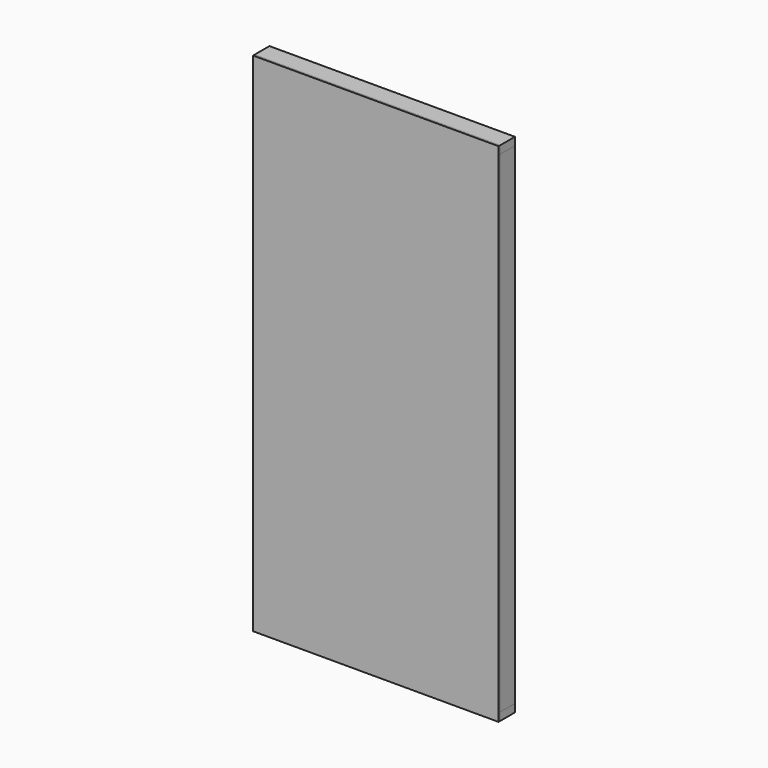
from build123d import *

# Parameters (mm, degrees)
F1_DEPTH = 44.45
F0_W     = 38.1
F0_H     = 2362.2
F2_DEPTH = 44.45
F3_W     = 1181.1
F3_H     = 2438.4
F4_DEPTH = 9.525


with BuildPart() as f1:
    # F0 (on Front) → F1 (new body, symmetric)
    with BuildSketch(Plane.XZ):
        Polygon((-590.55, 1181.1), (-552.45, 1181.1), (-184.15, 1181.1), (-146.05, 1181.1), (0, 1181.1), (38.1, 1181.1), (222.25, 1181.1), (260.35, 1181.1), (552.45, 1181.1), (590.55, 1181.1), (590.55, 1219.2), (-590.55, 1219.2), align=None)
        Polygon((-184.15, -1181.1), (-552.45, -1181.1), (-590.55, -1181.1), (-590.55, -1219.2), (590.55, -1219.2), (590.55, -1181.1), (552.45, -1181.1), (260.35, -1181.1), (222.25, -1181.1), (38.1, -1181.1), (0, -1181.1), (-146.05, -1181.1), align=None)
    extrude(amount=F1_DEPTH, both=True)


with BuildPart() as f2:
    # F0 (on Front) → F2 (new body, symmetric)
    with BuildSketch(Plane.XZ):
        with Locations((-571.5, 0)):
            Rectangle(F0_W, F0_H)
        with Locations((-165.1, 0)):
            Rectangle(F0_W, F0_H)
        with Locations((241.3, 0)):
            Rectangle(F0_W, F0_H)
        with Locations((571.5, 0)):
            Rectangle(F0_W, F0_H)
    extrude(amount=F2_DEPTH, both=True)


with BuildPart() as f4:
    # F3 (on face) → F4 (new body)
    with BuildSketch(Plane.XZ.offset(44.45)):
        Rectangle(F3_W, F3_H)
    extrude(amount=F4_DEPTH)


solid = Compound([f1.part, f2.part, f4.part])
